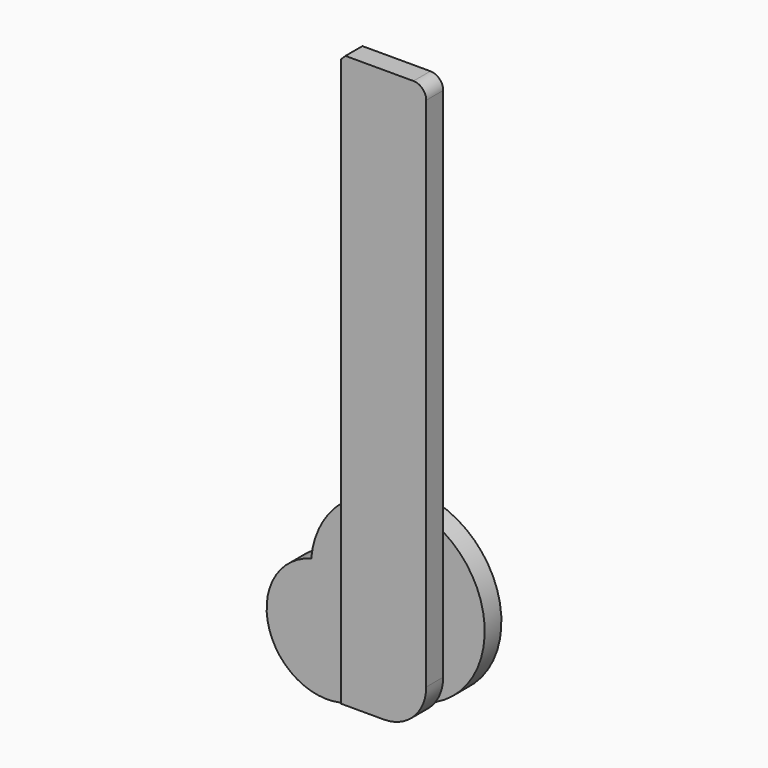
from build123d import *

# Parameters (mm, degrees)
F1_DEPTH = 25.4
F2_SIZE  = 5.08
F3_R     = 15.2778949267
F5_DEPTH = 25


with BuildPart() as f1:
    # F0 (on Front) → F1 (new body)
    with BuildSketch(Plane.XZ):
        with BuildLine():
            Line((50.8587062359, 342.0623540878), (-50.8587062359, 342.0623540878))
            Line((-50.8587062359, 342.0623540878), (-50.8587062359, -342.0623540878))
            Line((-50.8587062359, -342.0623540878), (0.0587062359, -342.0623540878))
            ThreePointArc((0.0587062359, -342.0623540878), (35.9797307202, -327.1833785721), (50.8587062359, -291.2623540878))
            Line((50.8587062359, -291.2623540878), (50.8587062359, 342.0623540878))
        make_face()
    extrude(amount=F1_DEPTH)

    # F2
    f2_edges = [f1.edges().sort_by_distance(p)[0] for p in [
        (-50.858706, -12.7, 342.062354),
    ]]
    chamfer(f2_edges, length=F2_SIZE)

    # F3
    f3_edges = [f1.edges().sort_by_distance(p)[0] for p in [
        (50.858706, -12.7, 342.062354),
    ]]
    fillet(f3_edges, radius=F3_R)

    # F4 (on face) → F5 (join)
    with BuildSketch(Plane(origin=(0, 0, 0), x_dir=(-1, 0, 0), z_dir=(0, 1, 0))):
        with BuildLine():
            ThreePointArc((27.986776288, -327.9091639399), (109.1739171381, -356.6419759562), (160.3966848346, -287.4093651772))
            ThreePointArc((160.3966848346, -287.4093651772), (145.5285553941, -243.4570500067), (107.0309394681, -217.5572266497))
            ThreePointArc((107.0309394681, -217.5572266497), (107.3433284277, -222.2019166399), (107.4475276889, -226.8559336662))
            ThreePointArc((107.4475276889, -226.8559336662), (85.2031326925, -291.1322247111), (27.986776288, -327.9091639399))
        make_face()
        with BuildLine():
            ThreePointArc((107.4475276889, -226.8559336662), (107.3433284277, -222.2019166399), (107.0309394681, -217.5572266497))
            ThreePointArc((107.0309394681, -217.5572266497), (29.1405817858, -245.2503223082), (27.986776288, -327.9091639399))
            ThreePointArc((27.986776288, -327.9091639399), (85.2031326925, -291.1322247111), (107.4475276889, -226.8559336662))
        make_face()
        with BuildLine():
            ThreePointArc((27.986776288, -327.9091639399), (29.1405817858, -245.2503223082), (107.0309394681, -217.5572266497))
            ThreePointArc((107.0309394681, -217.5572266497), (-81.0768529773, -166.3025021553), (27.986776288, -327.9091639399))
        make_face()
    extrude(amount=F5_DEPTH)


solid = f1.part
